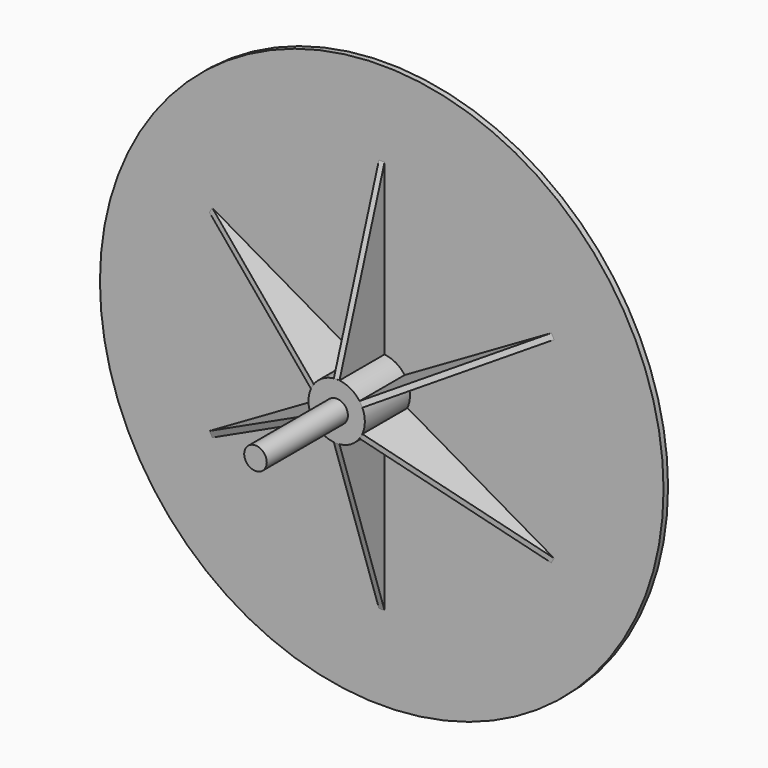
from build123d import *

# Parameters (mm, degrees)
F0_R     = 250
F1_DEPTH = 5
F2_R     = 25
F3_DEPTH = 50
F4_R     = 10
F5_DEPTH = 90
F7_DEPTH = 2.5
F8_COUNT = 6


with BuildPart() as f1:
    # F0 (on Front) → F1 (new body)
    with BuildSketch(Plane.XZ):
        Circle(F0_R)
    extrude(amount=F1_DEPTH)

    # F2 (on face) → F3 (join)
    with BuildSketch(Plane.XZ.offset(5)):
        Circle(F2_R)
    extrude(amount=F3_DEPTH)

    # F4 (on face) → F5 (join)
    with BuildSketch(Plane.XZ.offset(55)):
        Circle(F4_R)
    extrude(amount=F5_DEPTH)

    # F6 (on Right) → F7 (join, symmetric)
    with BuildSketch(Plane.YZ):
        Polygon((-5, 175.0694811344), (-55, 24.9402336776), (-5, 24.9402336776), align=None)
    extrude(amount=F7_DEPTH, both=True)

    # F8: F1 ×6 about axis
    f8_axis = Axis((0, -55, 0), (0, -1, 0))


with BuildPart() as f1_1:
    add(f1.part)
    for i in range(1, F8_COUNT):
        add(f1.part.rotate(f8_axis, i * 360 / F8_COUNT))


solid = f1_1.part
